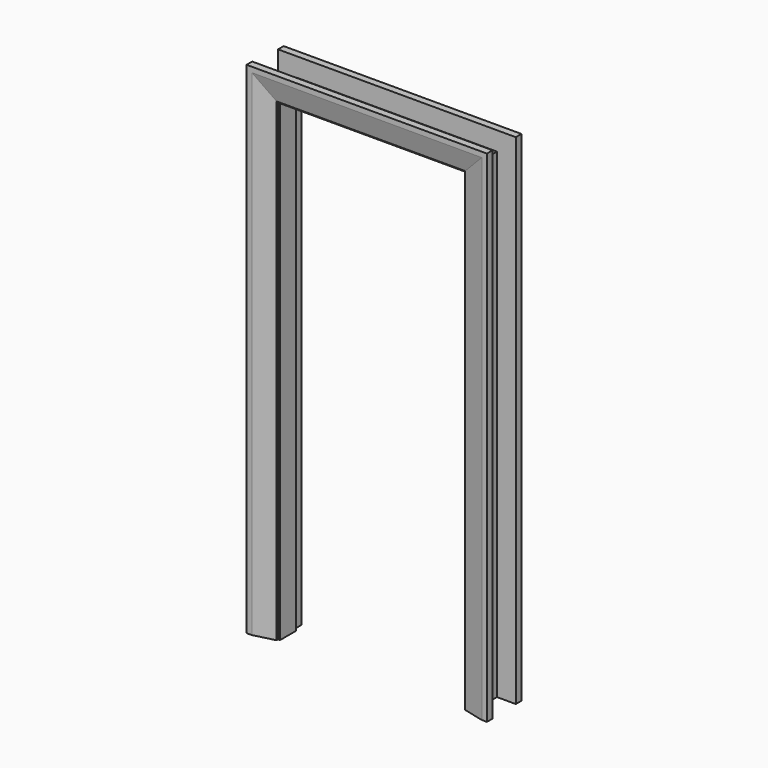
from build123d import *

# Parameters (mm, degrees)
F1_DEPTH = 85
F3_DEPTH = 45
F5_DEPTH = 30
F6_SIZE2 = 20
F6_SIZE  = 68
F8_DEPTH = 30
F9_SIZE2 = 22
F9_SIZE  = 88


with BuildPart() as f1:
    # F0 (on Front) → F1 (new body)
    with BuildSketch(Plane.XZ):
        Polygon((-22.5, 0), (0, 0), (0, 2007.5), (785, 2007.5), (785, 0), (807.5, 0), (807.5, 2030), (-22.5, 2030), align=None)
    extrude(amount=F1_DEPTH)

    # F2 (on face) → F3 (join)
    with BuildSketch(Plane(origin=(0, 0, 0), x_dir=(-1, 0, 0), z_dir=(0, 1, 0))):
        Polygon((12.5, 0), (22.5, 0), (32.5, 0), (32.5, 2040), (-817.5, 2040), (-817.5, 0), (-807.5, 0), (-797.5, 0), (-797.5, 2020), (12.5, 2020), align=None)
    extrude(amount=F3_DEPTH)

    # F4 (on face) → F5 (join)
    with BuildSketch(Plane(origin=(0, 45, 0), x_dir=(-1, 0, 0), z_dir=(0, 1, 0))):
        Polygon((-897.5, 0), (-817.5, 0), (-807.5, 0), (-807.5, 2035), (27.5, 2035), (27.5, 0), (32.5, 0), (112.5, 0), (112.5, 2120), (-897.5, 2120), align=None)
    extrude(amount=F5_DEPTH)

    # F6
    f6_edges = [f1.edges().sort_by_distance(p)[0] for p in [
        (390, 75, 2035),
        (-27.5, 75, 1017.5),
        (807.5, 75, 1017.5),
    ]]
    f6_side = f1.faces().sort_by_distance((852.5, 75, 23.482973))[0]
    chamfer(f6_edges, length=F6_SIZE, length2=F6_SIZE2, reference=f6_side)

    # F7 (on face) → F8 (join)
    with BuildSketch(Plane.XZ.offset(85)):
        Polygon((-118, 0), (-8, 0), (-8, 2015.5), (793, 2015.5), (793, 0), (903, 0), (903, 2125.5), (-118, 2125.5), align=None)
    extrude(amount=F8_DEPTH)

    # F9
    f9_edges = [f1.edges().sort_by_distance(p)[0] for p in [
        (793, -115, 1007.75),
        (392.5, -115, 2015.5),
        (-8, -115, 1007.75),
    ]]
    f9_side = f1.faces().sort_by_distance((-63, -115, 23.580058))[0]
    chamfer(f9_edges, length=F9_SIZE, length2=F9_SIZE2, reference=f9_side)


solid = f1.part
